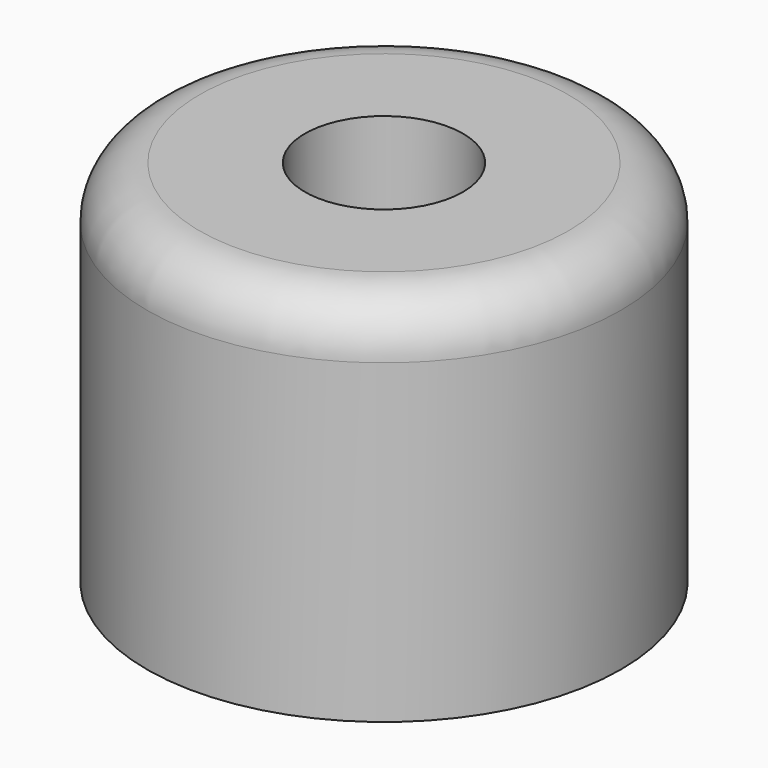
from build123d import *

# Parameters (mm, degrees)
F0_W   = 7.5
F0_H   = 15
F0_H_2 = 7
F0_W_2 = 4.5
F0_H_3 = 13
F2_R   = 5


with BuildPart() as f1:
    # F0 (on Front) → F1 (revolve)
    with BuildSketch(Plane.XZ):
        with Locations((11.25, 27.5)):
            Rectangle(F0_W, F0_H)
        with Locations((18.75, 27.5)):
            Rectangle(F0_W, F0_H)
        with Locations((18.75, 16.5)):
            Rectangle(F0_W, F0_H_2)
        with Locations((11.25, 16.5)):
            Rectangle(F0_W, F0_H_2)
        with Locations((5.25, 16.5)):
            Rectangle(F0_W_2, F0_H_2)
        with Locations((18.75, 6.5)):
            Rectangle(F0_W, F0_H_3)
    revolve(axis=Axis((0, 0, 17.5), (0, 0, 1)))

    # F2
    f2_edges = [f1.edges().sort_by_distance(p)[0] for p in [
        (-22.5, 0, 35),
    ]]
    fillet(f2_edges, radius=F2_R)


solid = f1.part
